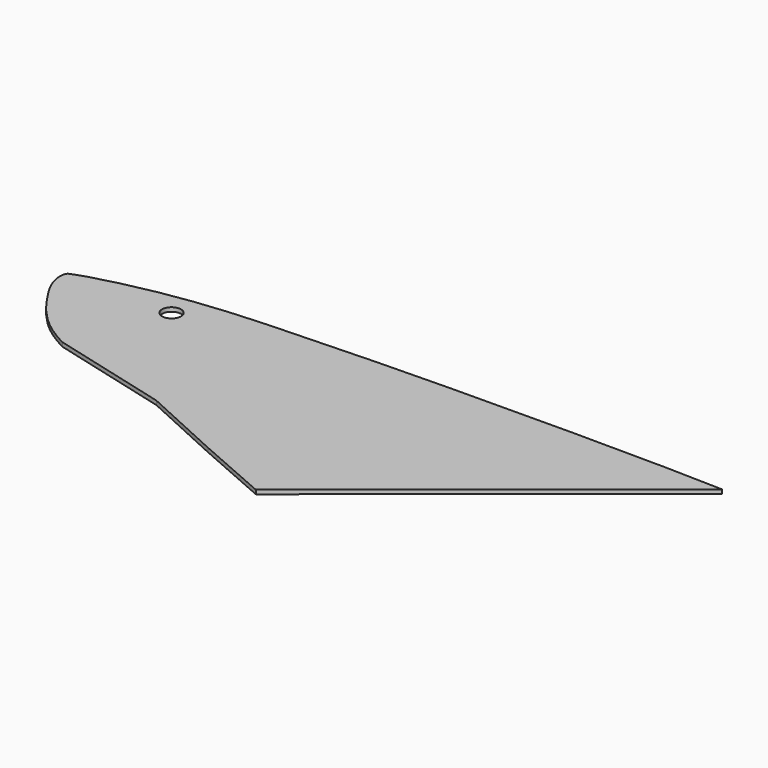
from build123d import *

# Parameters (mm, degrees)
F0_R     = 7.502984442
F1_DEPTH = 3.175


with BuildPart() as f1:
    # F0 (on Top) → F1 (new body)
    with BuildSketch(Plane.XY):
        with BuildLine():
            Line((-27.911869809, 18.1325878948), (195.8687237695, 197.8621801651))
            add(Edge.make_bspline(
                [(195.8687237695, 197.8621801651), (140.4299803505, 200.0221284344), (-35.2998852478, 199.2787000415), (-127.8920854877, 195.6910660496), (-223.6926391791, 192.4206244907), (-289.6006319967, 174.9969882776), (-297.6834774017, 171.0152029991)],
                knots=[0, 0, 0, 0, 0.3472881197, 0.5788918049, 0.8079745903, 1, 1, 1, 1], degree=3))
            add(Edge.make_bspline(
                [(-297.6834774017, 171.0152029991), (-300.0692967947, 170.3204857882), (-300.9611980245, 156.9519217377), (-287.9100924478, 137.4027793564), (-278.8924520905, 124.300063367), (-263.213059042, 108.3321863869), (-249.7073893414, 100.3834082106), (-243.9439445734, 97.4170863628)],
                knots=[0, 0, 0, 0, 0.1569010945, 0.3838414499, 0.5692812122, 0.7847142178, 1, 1, 1, 1], degree=3))
            Line((-243.9439445734, 97.4170863628), (-150.067999959, 72.7802217007))
            Line((-150.067999959, 72.7802217007), (-86.1023291945, 43.590914458))
            Line((-86.1023291945, 43.590914458), (-27.911869809, 18.1325878948))
        make_face()
        with Locations((-215.7788127661, 169.9166744947)):
            Circle(F0_R, mode=Mode.SUBTRACT)
    extrude(amount=F1_DEPTH)


solid = f1.part
